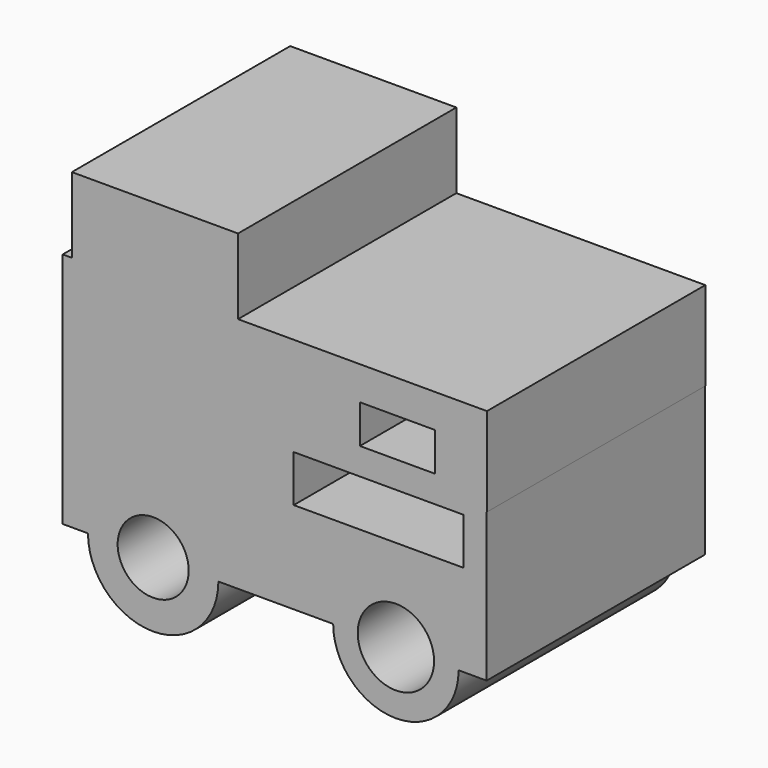
from build123d import *

# Parameters (mm, degrees)
F0_W     = 21.6928645968
F0_H     = 12.4372411519
F0_W_2   = 24.2960043252
F0_W_3   = 53.6649217829
F0_H_2   = 15.3809413314
F0_W_4   = 54.884574376
F0_H_3   = 15.0760281831
F1_DEPTH = 25.4
F2_DEPTH = 62.738
F3_DEPTH = 71.374


with BuildPart() as f1:
    # F0 (on Front) → F1 (new body)
    with BuildSketch(Plane.XZ):
        Polygon((-61.0292442143, 47.0119267702), (-61.0292442143, 18.3321516961), (75.8868977427, 18.3321516961), (75.9811550379, 18.3321516961), (75.9811550379, 47.0119267702), align=None)
        with Locations((-32.8727662563, 29.9694752321)):
            Rectangle(F0_W, F0_H, mode=Mode.SUBTRACT)
        with Locations((47.1015777439, 29.9694752321)):
            Rectangle(F0_W_2, F0_H, mode=Mode.SUBTRACT)
        with BuildLine():
            Line((75.8868977427, 18.3321516961), (-61.0292442143, 18.3321516961))
            Line((-61.0292442143, 18.3321516961), (-61.0292442143, -29.6469051391))
            Line((-61.0292442143, -29.6469051391), (-52.8746465882, -29.6469051391))
            ThreePointArc((-52.8746465882, -29.6469051391), (-31.816188246, -8.5884467969), (-10.7577299038, -29.6469051391))
            Line((-10.7577299038, -29.6469051391), (26.3103456442, -29.6469051391))
            ThreePointArc((26.3103456442, -29.6469051391), (46.5673431754, -9.3899076079), (66.8243407066, -29.6469051391))
            Line((66.8243407066, -29.6469051391), (75.8868977427, -29.6469051391))
            Line((75.8868977427, -29.6469051391), (75.8868977427, 18.3321516961))
        make_face()
        with Locations((-31.2481601723, 7.6904706657)):
            Rectangle(F0_W_3, F0_H_2, mode=Mode.SUBTRACT)
        with Locations((41.0165307112, 7.5380140916)):
            Rectangle(F0_W_4, F0_H_3, mode=Mode.SUBTRACT)
        with BuildLine():
            ThreePointArc((-10.7577299038, -29.6469051391), (-31.816188246, -8.5884467969), (-52.8746465882, -29.6469051391))
            Line((-52.8746465882, -29.6469051391), (-43.2868667506, -29.6469051391))
            ThreePointArc((-43.2868667506, -29.6469051391), (-31.816188246, -18.1762266345), (-20.3455097415, -29.6469051391))
            Line((-20.3455097415, -29.6469051391), (-10.7577299038, -29.6469051391))
        make_face()
        with BuildLine():
            Line((-43.2868667506, -29.6469051391), (-52.8746465882, -29.6469051391))
            ThreePointArc((-52.8746465882, -29.6469051391), (-31.816188246, -50.7053634813), (-10.7577299038, -29.6469051391))
            Line((-10.7577299038, -29.6469051391), (-20.3455097415, -29.6469051391))
            ThreePointArc((-20.3455097415, -29.6469051391), (-31.816188246, -41.1175836436), (-43.2868667506, -29.6469051391))
        make_face()
        with BuildLine():
            ThreePointArc((26.3103456442, -29.6469051391), (46.5673431754, -49.9039026703), (66.8243407066, -29.6469051391))
            Line((66.8243407066, -29.6469051391), (58.8957230989, -29.6469051391))
            ThreePointArc((58.8957230989, -29.6469051391), (46.5673431754, -41.9752850626), (34.2389632519, -29.6469051391))
            Line((34.2389632519, -29.6469051391), (26.3103456442, -29.6469051391))
        make_face()
        with BuildLine():
            Line((58.8957230989, -29.6469051391), (66.8243407066, -29.6469051391))
            ThreePointArc((66.8243407066, -29.6469051391), (46.5673431754, -9.3899076079), (26.3103456442, -29.6469051391))
            Line((26.3103456442, -29.6469051391), (34.2389632519, -29.6469051391))
            ThreePointArc((34.2389632519, -29.6469051391), (46.5673431754, -17.3185252156), (58.8957230989, -29.6469051391))
        make_face()
    extrude(amount=F1_DEPTH)

    # F2 (add): a face of the model
    f2_faces = [f1.faces().sort_by_distance(p)[0] for p in [
        (7.2714959642, 0, 4.1694288848),
    ]]
    extrude(f2_faces, amount=F2_DEPTH)

    # F3 (add): faces of the model
    f3_faces = [f1.faces().sort_by_distance(p)[0] for p in [
        (-31.2481601723, -12.7, 0),
        (-31.2481601723, 31.369, 0),
    ]]
    extrude(f3_faces, amount=F3_DEPTH)


solid = f1.part
